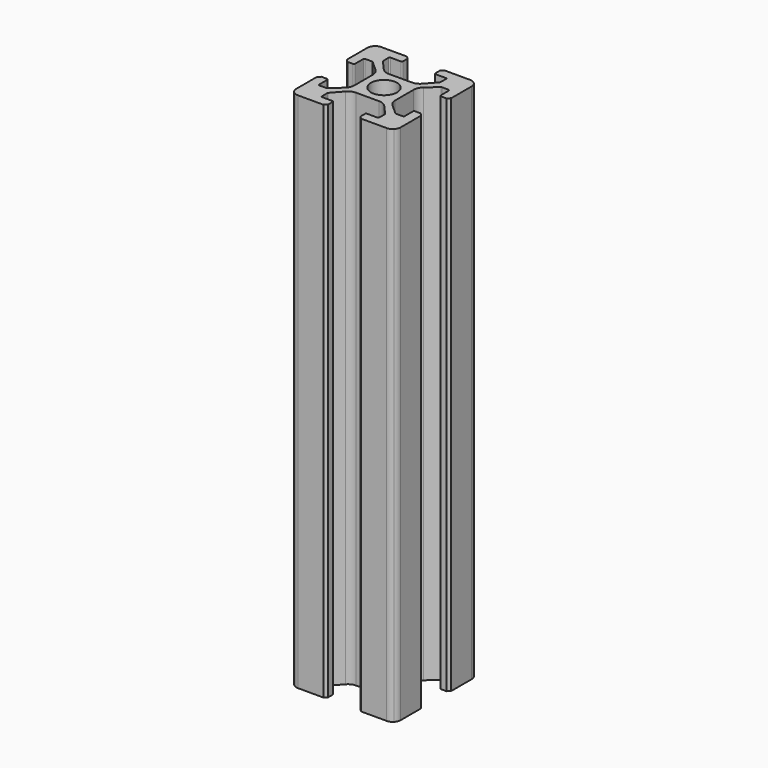
from build123d import *

# Parameters (mm, degrees)
F0_R     = 2.5
F1_DEPTH = 100


with BuildPart() as f1:
    # F0 (on Top) → F1 (new body)
    with BuildSketch(Plane.XY):
        with BuildLine():
            Line((30.582384, 13.664589), (30.582384, 14.764589))
            Line((30.582384, 14.764589), (30.082384, 15.264589))
            Line((30.082384, 15.264589), (25.182384, 15.264589))
            ThreePointArc((25.182384, 15.264589), (24.616801, 15.153875), (24.134708, 14.838077))
            ThreePointArc((24.134708, 14.838077), (24.121724, 14.825249), (24.108896, 14.812265))
            ThreePointArc((24.108896, 14.812265), (23.793098, 14.330172), (23.682384, 13.764589))
            Line((23.682384, 13.764589), (23.682384, 8.864589))
            Line((23.682384, 8.864589), (24.182384, 8.364589))
            Line((24.182384, 8.364589), (25.282384, 8.364589))
            ThreePointArc((25.282384, 8.364589), (25.423805, 8.423168), (25.482384, 8.564589))
            Line((25.482384, 8.564589), (25.482384, 10.564589))
            ThreePointArc((25.482384, 10.564589), (25.540962, 10.70601), (25.682384, 10.764589))
            Line((25.682384, 10.764589), (27.006344, 10.764589))
            ThreePointArc((27.006344, 10.764589), (27.07742, 10.751533), (27.139217, 10.714071))
            Line((27.139217, 10.714071), (29.111111, 8.961276))
            ThreePointArc((29.111111, 8.961276), (29.606864, 8.285769), (29.782384, 7.466457))
            Line((29.782384, 7.466457), (29.782384, 5.264589))
            Line((29.782384, 5.264589), (29.782384, 3.062721))
            ThreePointArc((29.782384, 3.062721), (29.606864, 2.243409), (29.111111, 1.567903))
            Line((29.111111, 1.567903), (27.139217, -0.184893))
            ThreePointArc((27.139217, -0.184893), (27.07742, -0.222355), (27.006344, -0.235411))
            Line((27.006344, -0.235411), (25.682384, -0.235411))
            ThreePointArc((25.682384, -0.235411), (25.540962, -0.176832), (25.482384, -0.035411))
            Line((25.482384, -0.035411), (25.482384, 1.964589))
            ThreePointArc((25.482384, 1.964589), (25.423805, 2.10601), (25.282384, 2.164589))
            Line((25.282384, 2.164589), (24.182384, 2.164589))
            Line((24.182384, 2.164589), (23.682384, 1.664589))
            Line((23.682384, 1.664589), (23.682384, -3.235411))
            ThreePointArc((23.682384, -3.235411), (23.793098, -3.800994), (24.108896, -4.283086))
            ThreePointArc((24.108896, -4.283086), (24.121724, -4.296071), (24.134708, -4.308899))
            ThreePointArc((24.134708, -4.308899), (24.616801, -4.624697), (25.182384, -4.735411))
            Line((25.182384, -4.735411), (30.082384, -4.735411))
            Line((30.082384, -4.735411), (30.582384, -4.235411))
            Line((30.582384, -4.235411), (30.582384, -3.135411))
            ThreePointArc((30.582384, -3.135411), (30.523805, -2.99399), (30.382384, -2.935411))
            Line((30.382384, -2.935411), (28.382384, -2.935411))
            ThreePointArc((28.382384, -2.935411), (28.240962, -2.876832), (28.182384, -2.735411))
            Line((28.182384, -2.735411), (28.182384, -1.411451))
            ThreePointArc((28.182384, -1.411451), (28.195439, -1.340375), (28.232902, -1.278578))
            Line((28.232902, -1.278578), (29.985697, 0.693317))
            ThreePointArc((29.985697, 0.693317), (30.661204, 1.189069), (31.480516, 1.364589))
            Line((31.480516, 1.364589), (33.682384, 1.364589))
            Line((33.682384, 1.364589), (35.884252, 1.364589))
            ThreePointArc((35.884252, 1.364589), (36.703564, 1.189069), (37.37907, 0.693317))
            Line((37.37907, 0.693317), (39.131866, -1.278578))
            ThreePointArc((39.131866, -1.278578), (39.169328, -1.340375), (39.182384, -1.411451))
            Line((39.182384, -1.411451), (39.182384, -2.735411))
            ThreePointArc((39.182384, -2.735411), (39.123805, -2.876832), (38.982384, -2.935411))
            Line((38.982384, -2.935411), (36.982384, -2.935411))
            ThreePointArc((36.982384, -2.935411), (36.840962, -2.99399), (36.782384, -3.135411))
            Line((36.782384, -3.135411), (36.782384, -4.235411))
            Line((36.782384, -4.235411), (37.282384, -4.735411))
            Line((37.282384, -4.735411), (42.182384, -4.735411))
            ThreePointArc((42.182384, -4.735411), (42.747967, -4.624697), (43.230059, -4.308899))
            ThreePointArc((43.230059, -4.308899), (43.243044, -4.296071), (43.255872, -4.283086))
            ThreePointArc((43.255872, -4.283086), (43.57167, -3.800994), (43.682384, -3.235411))
            Line((43.682384, -3.235411), (43.682384, 1.664589))
            Line((43.682384, 1.664589), (43.182384, 2.164589))
            Line((43.182384, 2.164589), (42.082384, 2.164589))
            ThreePointArc((42.082384, 2.164589), (41.940962, 2.10601), (41.882384, 1.964589))
            Line((41.882384, 1.964589), (41.882384, -0.035411))
            ThreePointArc((41.882384, -0.035411), (41.823805, -0.176832), (41.682384, -0.235411))
            Line((41.682384, -0.235411), (40.358424, -0.235411))
            ThreePointArc((40.358424, -0.235411), (40.287348, -0.222355), (40.225551, -0.184893))
            Line((40.225551, -0.184893), (38.253656, 1.567903))
            ThreePointArc((38.253656, 1.567903), (37.757904, 2.243409), (37.582384, 3.062721))
            Line((37.582384, 3.062721), (37.582384, 5.264589))
            Line((37.582384, 5.264589), (37.582384, 7.466457))
            ThreePointArc((37.582384, 7.466457), (37.757904, 8.285769), (38.253656, 8.961276))
            Line((38.253656, 8.961276), (40.225551, 10.714071))
            ThreePointArc((40.225551, 10.714071), (40.287348, 10.751533), (40.358424, 10.764589))
            Line((40.358424, 10.764589), (41.682384, 10.764589))
            ThreePointArc((41.682384, 10.764589), (41.823805, 10.70601), (41.882384, 10.564589))
            Line((41.882384, 10.564589), (41.882384, 8.564589))
            ThreePointArc((41.882384, 8.564589), (41.940962, 8.423168), (42.082384, 8.364589))
            Line((42.082384, 8.364589), (43.182384, 8.364589))
            Line((43.182384, 8.364589), (43.682384, 8.864589))
            Line((43.682384, 8.864589), (43.682384, 13.764589))
            ThreePointArc((43.682384, 13.764589), (43.57167, 14.330172), (43.255872, 14.812265))
            ThreePointArc((43.255872, 14.812265), (43.243044, 14.825249), (43.230059, 14.838077))
            ThreePointArc((43.230059, 14.838077), (42.747967, 15.153875), (42.182384, 15.264589))
            Line((42.182384, 15.264589), (37.282384, 15.264589))
            Line((37.282384, 15.264589), (36.782384, 14.764589))
            Line((36.782384, 14.764589), (36.782384, 13.664589))
            ThreePointArc((36.782384, 13.664589), (36.840962, 13.523168), (36.982384, 13.464589))
            Line((36.982384, 13.464589), (38.982384, 13.464589))
            ThreePointArc((38.982384, 13.464589), (39.123805, 13.40601), (39.182384, 13.264589))
            Line((39.182384, 13.264589), (39.182384, 11.940629))
            ThreePointArc((39.182384, 11.940629), (39.169328, 11.869553), (39.131866, 11.807756))
            Line((39.131866, 11.807756), (37.37907, 9.835861))
            ThreePointArc((37.37907, 9.835861), (36.703564, 9.340109), (35.884252, 9.164589))
            Line((35.884252, 9.164589), (33.682384, 9.164589))
            Line((33.682384, 9.164589), (31.480516, 9.164589))
            ThreePointArc((31.480516, 9.164589), (30.661204, 9.340109), (29.985697, 9.835861))
            Line((29.985697, 9.835861), (28.232902, 11.807756))
            ThreePointArc((28.232902, 11.807756), (28.195439, 11.869553), (28.182384, 11.940629))
            Line((28.182384, 11.940629), (28.182384, 13.264589))
            ThreePointArc((28.182384, 13.264589), (28.240962, 13.40601), (28.382384, 13.464589))
            Line((28.382384, 13.464589), (30.382384, 13.464589))
            ThreePointArc((30.382384, 13.464589), (30.523805, 13.523168), (30.582384, 13.664589))
        make_face()
        with Locations((33.682384, 5.264589)):
            Circle(F0_R, mode=Mode.SUBTRACT)
    extrude(amount=F1_DEPTH)


solid = f1.part
